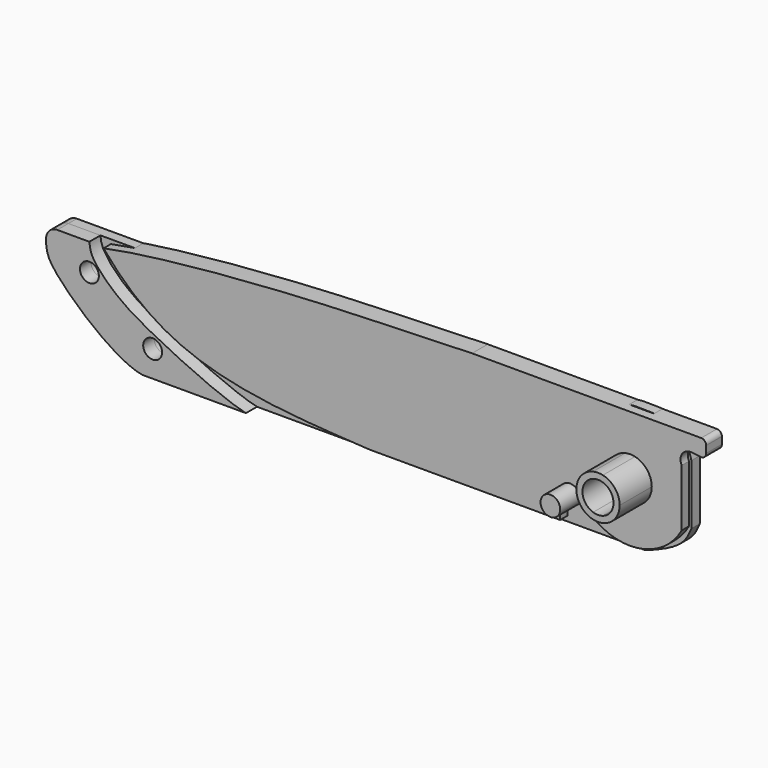
from build123d import *

# Parameters (mm, degrees)
F1_DEPTH = 9.652
F2_DEPTH = 2.54
F3_DEPTH = 1.7018
F4_DEPTH = 3.175
F5_R     = 1.5875
F5_R_2   = 3.4925
F5_R_3   = 1.524
F6_DEPTH = 1.7018
F7_DEPTH = 7.112
F8_DEPTH = 3.937
F9_DEPTH = 1.7018


with BuildPart() as f1:
    # F0 (on Front) → F1 (new body)
    with BuildSketch(Plane.XZ):
        with BuildLine():
            Line((0.7874, 2.3747641672), (0.7874, 3.4025810042))
            ThreePointArc((0.7874, 3.4025810042), (0, 3.4925), (-0.7874, 3.4025810042))
            Line((-0.7874, 3.4025810042), (-0.7874, 2.3747641672))
            ThreePointArc((-0.7874, 2.3747641672), (0, 2.5019), (0.7874, 2.3747641672))
        make_face()
        with BuildLine():
            Line((-0.7874, 2.3747641672), (-0.7874, 3.4025810042))
            ThreePointArc((-0.7874, 3.4025810042), (-3.4925, 0), (-0.7874, -3.4025810042))
            Line((-0.7874, -3.4025810042), (-0.7874, -2.3747641672))
            ThreePointArc((-0.7874, -2.3747641672), (-2.5019, 0), (-0.7874, 2.3747641672))
        make_face()
        with BuildLine():
            ThreePointArc((-0.7874, -3.4025810042), (0, -3.4925), (0.7874, -3.4025810042))
            Line((0.7874, -3.4025810042), (0.7874, -2.3747641672))
            ThreePointArc((0.7874, -2.3747641672), (0, -2.5019), (-0.7874, -2.3747641672))
            Line((-0.7874, -2.3747641672), (-0.7874, -3.4025810042))
        make_face()
        with BuildLine():
            ThreePointArc((0.7874, -3.4025810042), (2.7338206552, -2.1734260684), (3.4925, 0))
            ThreePointArc((3.4925, 0), (2.7338206552, 2.1734260684), (0.7874, 3.4025810042))
            Line((0.7874, 3.4025810042), (0.7874, 2.3747641672))
            ThreePointArc((0.7874, 2.3747641672), (2.0284846154, 1.4644977893), (2.5019, 0))
            ThreePointArc((2.5019, 0), (2.0284846154, -1.4644977893), (0.7874, -2.3747641672))
            Line((0.7874, -2.3747641672), (0.7874, -3.4025810042))
        make_face()
    extrude(amount=F1_DEPTH)

    # F0 (on Front) → F2 (join)
    with BuildSketch(Plane.XZ):
        with BuildLine():
            ThreePointArc((-0.7874, 3.4025810042), (0, 3.4925), (0.7874, 3.4025810042))
            Line((0.7874, 3.4025810042), (0.7874, 4.6969572587))
            ThreePointArc((0.7874, 4.6969572587), (0, 4.7625), (-0.7874, 4.6969572587))
            Line((-0.7874, 4.6969572587), (-0.7874, 3.4025810042))
        make_face()
        with BuildLine():
            ThreePointArc((-0.7874, -3.4025810042), (-3.4925, 0), (-0.7874, 3.4025810042))
            Line((-0.7874, 3.4025810042), (-0.7874, 4.6969572587))
            ThreePointArc((-0.7874, 4.6969572587), (-4.7625, 0), (-0.7874, -4.6969572587))
            Line((-0.7874, -4.6969572587), (-0.7874, -3.4025810042))
        make_face()
        with BuildLine():
            Line((0.7874, -4.6969572587), (0.7874, -3.4025810042))
            ThreePointArc((0.7874, -3.4025810042), (0, -3.4925), (-0.7874, -3.4025810042))
            Line((-0.7874, -3.4025810042), (-0.7874, -4.6969572587))
            ThreePointArc((-0.7874, -4.6969572587), (0, -4.7625), (0.7874, -4.6969572587))
        make_face()
        with BuildLine():
            ThreePointArc((0.7874, 3.4025810042), (2.7338206552, 2.1734260684), (3.4925, 0))
            ThreePointArc((3.4925, 0), (2.7338206552, -2.1734260684), (0.7874, -3.4025810042))
            Line((0.7874, -3.4025810042), (0.7874, -4.6969572587))
            ThreePointArc((0.7874, -4.6969572587), (3.6353403383, -3.0766388925), (4.7625, 0))
            ThreePointArc((4.7625, 0), (3.6353403383, 3.0766388925), (0.7874, 4.6969572587))
            Line((0.7874, 4.6969572587), (0.7874, 3.4025810042))
        make_face()
    extrude(amount=F2_DEPTH)

    # F0 (on Front) → F3 (cut)
    with BuildSketch(Plane.XZ):
        with BuildLine():
            ThreePointArc((-0.7874, 3.4025810042), (0, 3.4925), (0.7874, 3.4025810042))
            Line((0.7874, 3.4025810042), (0.7874, 4.6969572587))
            ThreePointArc((0.7874, 4.6969572587), (0, 4.7625), (-0.7874, 4.6969572587))
            Line((-0.7874, 4.6969572587), (-0.7874, 3.4025810042))
        make_face()
        with BuildLine():
            Line((0.7874, -4.6969572587), (0.7874, -3.4025810042))
            ThreePointArc((0.7874, -3.4025810042), (0, -3.4925), (-0.7874, -3.4025810042))
            Line((-0.7874, -3.4025810042), (-0.7874, -4.6969572587))
            ThreePointArc((-0.7874, -4.6969572587), (0, -4.7625), (0.7874, -4.6969572587))
        make_face()
        with BuildLine():
            Line((0.7874, 2.3747641672), (0.7874, 3.4025810042))
            ThreePointArc((0.7874, 3.4025810042), (0, 3.4925), (-0.7874, 3.4025810042))
            Line((-0.7874, 3.4025810042), (-0.7874, 2.3747641672))
            ThreePointArc((-0.7874, 2.3747641672), (0, 2.5019), (0.7874, 2.3747641672))
        make_face()
        with BuildLine():
            ThreePointArc((-0.7874, -3.4025810042), (0, -3.4925), (0.7874, -3.4025810042))
            Line((0.7874, -3.4025810042), (0.7874, -2.3747641672))
            ThreePointArc((0.7874, -2.3747641672), (0, -2.5019), (-0.7874, -2.3747641672))
            Line((-0.7874, -2.3747641672), (-0.7874, -3.4025810042))
        make_face()
    extrude(amount=F3_DEPTH, mode=Mode.SUBTRACT)


with BuildPart() as f4:
    # F0 (on Front) → F4 (new body)
    with BuildSketch(Plane.XZ):
        with BuildLine():
            ThreePointArc((-9.7136321734, -3.81), (-8.9086227458, -4.0292470733), (-8.3259704343, -4.6264285714))
            ThreePointArc((-8.3259704343, -4.6264285714), (0, -9.525), (8.3259704343, -4.6264285714))
            Line((8.3259704343, -4.6264285714), (8.3259704343, 4.6264285714))
            ThreePointArc((8.3259704343, 4.6264285714), (8.3915494048, 6.2762794963), (9.8873594262, 6.9754654913))
            Line((9.8873594262, 6.9754654913), (11.3816851309, 6.8109466213))
            ThreePointArc((11.3816851309, 6.8109466213), (12.0031464785, 7.0103320101), (12.2693436663, 7.6062412289))
            Line((12.2693436663, 7.6062412289), (12.2693436663, 8.7249))
            ThreePointArc((12.2693436663, 8.7249), (12.0349998019, 9.2906561356), (11.4692436663, 9.525))
            Line((11.4692436663, 9.525), (-25.5008321255, 9.525))
            add(Edge.make_bspline(
                [(-84.9436223507, 5.1102545112), (-77.6679247966, 6.6430628968), (-52.2834677522, 8.937162847), (-35.3853115193, 9.1245274559), (-25.5008321255, 9.525)],
                knots=[0, 0, 0, 0, 0.5116289695, 1, 1, 1, 1], degree=3))
            add(Edge.make_bspline(
                [(-84.9436223507, 5.1102545112), (-78.5651858809, -2.6174734336), (-65.0942520128, -8.3307262941), (-49.6610103736, -9.0596550909), (-42.0259274542, -9.525)],
                knots=[0, 0, 0, 0, 0.507858125, 1, 1, 1, 1], degree=3))
            Line((-42.0259274542, -9.525), (-11.3000985913, -9.525))
            Line((-11.3000985913, -9.525), (-11.3000985913, -5.4547761286))
            ThreePointArc((-11.3000985913, -5.4547761286), (-10.8562349268, -4.2954041793), (-9.7136321734, -3.81))
        make_face()
        with BuildLine():
            ThreePointArc((-0.7874, 4.6969572587), (0, 4.7625), (0.7874, 4.6969572587))
            ThreePointArc((0.7874, 4.6969572587), (3.6353403383, 3.0766388925), (4.7625, 0))
            ThreePointArc((4.7625, 0), (3.6353403383, -3.0766388925), (0.7874, -4.6969572587))
            ThreePointArc((0.7874, -4.6969572587), (0, -4.7625), (-0.7874, -4.6969572587))
            ThreePointArc((-0.7874, -4.6969572587), (-4.7625, 0), (-0.7874, 4.6969572587))
        make_face(mode=Mode.SUBTRACT)
        with BuildLine():
            ThreePointArc((0.7874, 3.4025810042), (2.7338206552, 2.1734260684), (3.4925, 0))
            ThreePointArc((3.4925, 0), (2.7338206552, -2.1734260684), (0.7874, -3.4025810042))
            Line((0.7874, -3.4025810042), (0.7874, -4.6969572587))
            ThreePointArc((0.7874, -4.6969572587), (3.6353403383, -3.0766388925), (4.7625, 0))
            ThreePointArc((4.7625, 0), (3.6353403383, 3.0766388925), (0.7874, 4.6969572587))
            Line((0.7874, 4.6969572587), (0.7874, 3.4025810042))
        make_face()
        with BuildLine():
            ThreePointArc((-0.7874, 3.4025810042), (0, 3.4925), (0.7874, 3.4025810042))
            Line((0.7874, 3.4025810042), (0.7874, 4.6969572587))
            ThreePointArc((0.7874, 4.6969572587), (0, 4.7625), (-0.7874, 4.6969572587))
            Line((-0.7874, 4.6969572587), (-0.7874, 3.4025810042))
        make_face()
        with BuildLine():
            ThreePointArc((-0.7874, -3.4025810042), (-3.4925, 0), (-0.7874, 3.4025810042))
            Line((-0.7874, 3.4025810042), (-0.7874, 4.6969572587))
            ThreePointArc((-0.7874, 4.6969572587), (-4.7625, 0), (-0.7874, -4.6969572587))
            Line((-0.7874, -4.6969572587), (-0.7874, -3.4025810042))
        make_face()
        with BuildLine():
            Line((0.7874, -4.6969572587), (0.7874, -3.4025810042))
            ThreePointArc((0.7874, -3.4025810042), (0, -3.4925), (-0.7874, -3.4025810042))
            Line((-0.7874, -3.4025810042), (-0.7874, -4.6969572587))
            ThreePointArc((-0.7874, -4.6969572587), (0, -4.7625), (0.7874, -4.6969572587))
        make_face()
    extrude(amount=F4_DEPTH)


with BuildPart() as f6:
    # F5 (on Front) → F6 (new body)
    with BuildSketch(Plane.XZ):
        with BuildLine():
            Line((8.7056843241, -4.8211342655), (8.7056843241, 4.8306252338))
            add(Edge.make_bspline(
                [(-7.1308843241, 8.8201870045), (-6.6159287961, 8.9127319835), (-2.4232677186, 9.6201885683), (6.3269471767, 10.2529648853), (8.2711653339, 6.5687182424), (8.7056843241, 4.8306252338)],
                knots=[0.6899652733, 0.6899652733, 0.6899652733, 0.6899652733, 0.7145624128, 0.8861383033, 1, 1, 1, 1], degree=3))
            Line((-7.1308843241, 8.8201870045), (-7.1308843241, -2.7051246138))
            Line((-7.1308843241, -2.7051246138), (-65.0670677423, -2.7051246138))
            Line((-65.0670677423, -2.7051246138), (-65.0670677423, -1.1303246138))
            Line((-65.0670677423, -1.1303246138), (-8.7056843241, -1.1303246138))
            Line((-8.7056843241, -1.1303246138), (-8.7056843241, 8.5218110906))
            add(Edge.make_bspline(
                [(-8.767523378, 8.5095933722), (-8.7469098801, 8.5136706194), (-8.7262970993, 8.5177432147), (-8.7056843241, 8.5218110906)],
                knots=[0.6635194537, 0.6635194537, 0.6635194537, 0.6635194537, 0.6645257355, 0.6645257355, 0.6645257355, 0.6645257355], degree=3))
            ThreePointArc((-8.767523378, 8.5095933722), (-15.7031715641, 3.6833055114), (-23.7470299841, 6.2703138215))
            add(Edge.make_bspline(
                [(-79.8205944567, 5.8002323285), (-78.9895821478, 4.4478065818), (-69.2790318612, 4.0566451159), (-37.1354316103, 5.077107537), (-23.7470299841, 6.2703138215)],
                knots=[0, 0, 0, 0, 0.1595251533, 0.4846616656, 0.4846616656, 0.4846616656, 0.4846616656], degree=3))
            Line((-79.8205944567, 5.8002323285), (-86.6286313581, 5.8002323285))
            add(Edge.make_bspline(
                [(-61.3722170357, -10.3288050451), (-64.8677997765, -9.5440821396), (-77.4045733297, -3.7807328621), (-82.8618572594, -0.0701179804), (-86.4710867285, 3.754260246), (-86.5685232957, 5.3524931925), (-86.6286313581, 5.8002323285)],
                knots=[0, 0, 0, 0, 0.3963449446, 0.6614913365, 0.8705711716, 1, 1, 1, 1], degree=3))
            Line((-61.3722170357, -10.3288050451), (0.9961197518, -10.3288050451))
            Line((0.9961197518, -10.3288050451), (1.1150140215, -10.3288050451))
            add(Edge.make_bspline(
                [(8.7056843241, -4.8211342655), (8.2727266839, -5.8998837701), (7.2857187095, -8.2218171794), (1.641760135, -10.236676011), (1.1150140215, -10.3288050451)],
                knots=[0, 0, 0, 0, 0.413894288, 0.9269707691, 0.9269707691, 0.9269707691, 0.9269707691], degree=3))
        make_face()
        with Locations((-9.7136321734, -5.3975)):
            Circle(F5_R, mode=Mode.SUBTRACT)
        Circle(F5_R_2, mode=Mode.SUBTRACT)
        with BuildLine():
            Line((-78.087379232, -10.3288050451), (-61.3722170357, -10.3288050451))
            add(Edge.make_bspline(
                [(-61.3722170357, -10.3288050451), (-64.8677997765, -9.5440821396), (-77.4045733297, -3.7807328621), (-82.8618572594, -0.0701179804), (-86.4710867285, 3.754260246), (-86.5685232957, 5.3524931925), (-86.6286313581, 5.8002323285)],
                knots=[0, 0, 0, 0, 0.3963449446, 0.6614913365, 0.8705711716, 1, 1, 1, 1], degree=3))
            Line((-86.6286313581, 5.8002323285), (-91.8022066591, 5.8002323285))
            ThreePointArc((-91.8022066591, 5.8002323285), (-93.0555025787, 5.2964372709), (-93.6114285256, 4.0653781887))
            add(Edge.make_bspline(
                [(-78.087379232, -10.3288050451), (-82.5819988552, -9.5586876017), (-92.6779541923, -0.6043761781), (-93.515106598, 2.3075348034), (-93.6386675916, 3.4166101176), (-93.6114285256, 4.0653781887)],
                knots=[0, 0, 0, 0, 0.5402504628, 0.7667383872, 0.9050702148, 0.9050702148, 0.9050702148, 0.9050702148], degree=3))
        make_face()
        with Locations((-76.4197818935, -6.0984650627)):
            Circle(F5_R_3, mode=Mode.SUBTRACT)
        with Locations((-86.6208970547, 1.4496847289)):
            Circle(F5_R_3, mode=Mode.SUBTRACT)
        with BuildLine():
            ThreePointArc((-23.7470299841, 6.2703138215), (-15.7031715641, 3.6833055114), (-8.767523378, 8.5095933722))
            add(Edge.make_bspline(
                [(-23.7470299841, 6.2703138215), (-22.1319240002, 6.4142559188), (-15.3094735971, 7.1043924792), (-11.6279214938, 7.943820876), (-8.767523378, 8.5095933722)],
                knots=[0.4846616656, 0.4846616656, 0.4846616656, 0.4846616656, 0.5238844154, 0.6635194537, 0.6635194537, 0.6635194537, 0.6635194537], degree=3))
        make_face()
    extrude(amount=F6_DEPTH)


with BuildPart() as f7:
    # F5 (on Front) → F7 (new body)
    with BuildSketch(Plane.XZ):
        with Locations((-9.7136321734, -5.3975)):
            Circle(F5_R)
    extrude(amount=F7_DEPTH)


with BuildPart() as f8:
    # F5 (on Front) → F8 (new body)
    with BuildSketch(Plane.XZ):
        with BuildLine():
            Line((-78.087379232, -10.3288050451), (-61.3722170357, -10.3288050451))
            add(Edge.make_bspline(
                [(-61.3722170357, -10.3288050451), (-64.8677997765, -9.5440821396), (-77.4045733297, -3.7807328621), (-82.8618572594, -0.0701179804), (-86.4710867285, 3.754260246), (-86.5685232957, 5.3524931925), (-86.6286313581, 5.8002323285)],
                knots=[0, 0, 0, 0, 0.3963449446, 0.6614913365, 0.8705711716, 1, 1, 1, 1], degree=3))
            Line((-86.6286313581, 5.8002323285), (-91.8022066591, 5.8002323285))
            ThreePointArc((-91.8022066591, 5.8002323285), (-93.0555025787, 5.2964372709), (-93.6114285256, 4.0653781887))
            add(Edge.make_bspline(
                [(-78.087379232, -10.3288050451), (-82.5819988552, -9.5586876017), (-92.6779541923, -0.6043761781), (-93.515106598, 2.3075348034), (-93.6386675916, 3.4166101176), (-93.6114285256, 4.0653781887)],
                knots=[0, 0, 0, 0, 0.5402504628, 0.7667383872, 0.9050702148, 0.9050702148, 0.9050702148, 0.9050702148], degree=3))
        make_face()
        with Locations((-76.4197818935, -6.0984650627)):
            Circle(F5_R_3, mode=Mode.SUBTRACT)
        with Locations((-86.6208970547, 1.4496847289)):
            Circle(F5_R_3, mode=Mode.SUBTRACT)
    extrude(amount=F8_DEPTH)


with BuildPart() as f9:
    # F5 (on Front) → F9 (new body)
    with BuildSketch(Plane.XZ):
        with BuildLine():
            Line((8.7056843241, -4.8211342655), (8.7056843241, 4.8306252338))
            add(Edge.make_bspline(
                [(-7.1308843241, 8.8201870045), (-6.6159287961, 8.9127319835), (-2.4232677186, 9.6201885683), (6.3269471767, 10.2529648853), (8.2711653339, 6.5687182424), (8.7056843241, 4.8306252338)],
                knots=[0.6899652733, 0.6899652733, 0.6899652733, 0.6899652733, 0.7145624128, 0.8861383033, 1, 1, 1, 1], degree=3))
            Line((-7.1308843241, 8.8201870045), (-7.1308843241, -2.7051246138))
            Line((-7.1308843241, -2.7051246138), (-65.0670677423, -2.7051246138))
            Line((-65.0670677423, -2.7051246138), (-65.0670677423, -1.1303246138))
            Line((-65.0670677423, -1.1303246138), (-8.7056843241, -1.1303246138))
            Line((-8.7056843241, -1.1303246138), (-8.7056843241, 8.5218110906))
            add(Edge.make_bspline(
                [(-8.767523378, 8.5095933722), (-8.7469098801, 8.5136706194), (-8.7262970993, 8.5177432147), (-8.7056843241, 8.5218110906)],
                knots=[0.6635194537, 0.6635194537, 0.6635194537, 0.6635194537, 0.6645257355, 0.6645257355, 0.6645257355, 0.6645257355], degree=3))
            ThreePointArc((-8.767523378, 8.5095933722), (-15.7031715641, 3.6833055114), (-23.7470299841, 6.2703138215))
            add(Edge.make_bspline(
                [(-79.8205944567, 5.8002323285), (-78.9895821478, 4.4478065818), (-69.2790318612, 4.0566451159), (-37.1354316103, 5.077107537), (-23.7470299841, 6.2703138215)],
                knots=[0, 0, 0, 0, 0.1595251533, 0.4846616656, 0.4846616656, 0.4846616656, 0.4846616656], degree=3))
            Line((-79.8205944567, 5.8002323285), (-86.6286313581, 5.8002323285))
            add(Edge.make_bspline(
                [(-61.3722170357, -10.3288050451), (-64.8677997765, -9.5440821396), (-77.4045733297, -3.7807328621), (-82.8618572594, -0.0701179804), (-86.4710867285, 3.754260246), (-86.5685232957, 5.3524931925), (-86.6286313581, 5.8002323285)],
                knots=[0, 0, 0, 0, 0.3963449446, 0.6614913365, 0.8705711716, 1, 1, 1, 1], degree=3))
            Line((-61.3722170357, -10.3288050451), (0.9961197518, -10.3288050451))
            Line((0.9961197518, -10.3288050451), (1.1150140215, -10.3288050451))
            add(Edge.make_bspline(
                [(8.7056843241, -4.8211342655), (8.2727266839, -5.8998837701), (7.2857187095, -8.2218171794), (1.641760135, -10.236676011), (1.1150140215, -10.3288050451)],
                knots=[0, 0, 0, 0, 0.413894288, 0.9269707691, 0.9269707691, 0.9269707691, 0.9269707691], degree=3))
        make_face()
        with Locations((-9.7136321734, -5.3975)):
            Circle(F5_R, mode=Mode.SUBTRACT)
        Circle(F5_R_2, mode=Mode.SUBTRACT)
        Polygon((-7.1308843241, -2.7051246138), (-7.1308843241, 8.8201870045), (-8.7056843241, 8.5218110906), (-8.7056843241, -1.1303246138), (-65.0670677423, -1.1303246138), (-65.0670677423, -2.7051246138), align=None)
        with BuildLine():
            Line((-78.087379232, -10.3288050451), (-61.3722170357, -10.3288050451))
            add(Edge.make_bspline(
                [(-61.3722170357, -10.3288050451), (-64.8677997765, -9.5440821396), (-77.4045733297, -3.7807328621), (-82.8618572594, -0.0701179804), (-86.4710867285, 3.754260246), (-86.5685232957, 5.3524931925), (-86.6286313581, 5.8002323285)],
                knots=[0, 0, 0, 0, 0.3963449446, 0.6614913365, 0.8705711716, 1, 1, 1, 1], degree=3))
            Line((-86.6286313581, 5.8002323285), (-91.8022066591, 5.8002323285))
            ThreePointArc((-91.8022066591, 5.8002323285), (-93.0555025787, 5.2964372709), (-93.6114285256, 4.0653781887))
            add(Edge.make_bspline(
                [(-78.087379232, -10.3288050451), (-82.5819988552, -9.5586876017), (-92.6779541923, -0.6043761781), (-93.515106598, 2.3075348034), (-93.6386675916, 3.4166101176), (-93.6114285256, 4.0653781887)],
                knots=[0, 0, 0, 0, 0.5402504628, 0.7667383872, 0.9050702148, 0.9050702148, 0.9050702148, 0.9050702148], degree=3))
        make_face()
        with Locations((-76.4197818935, -6.0984650627)):
            Circle(F5_R_3, mode=Mode.SUBTRACT)
        with Locations((-86.6208970547, 1.4496847289)):
            Circle(F5_R_3, mode=Mode.SUBTRACT)
    extrude(amount=F9_DEPTH)


solid = Compound([f1.part, f4.part, f6.part, f7.part, f8.part, f9.part])
